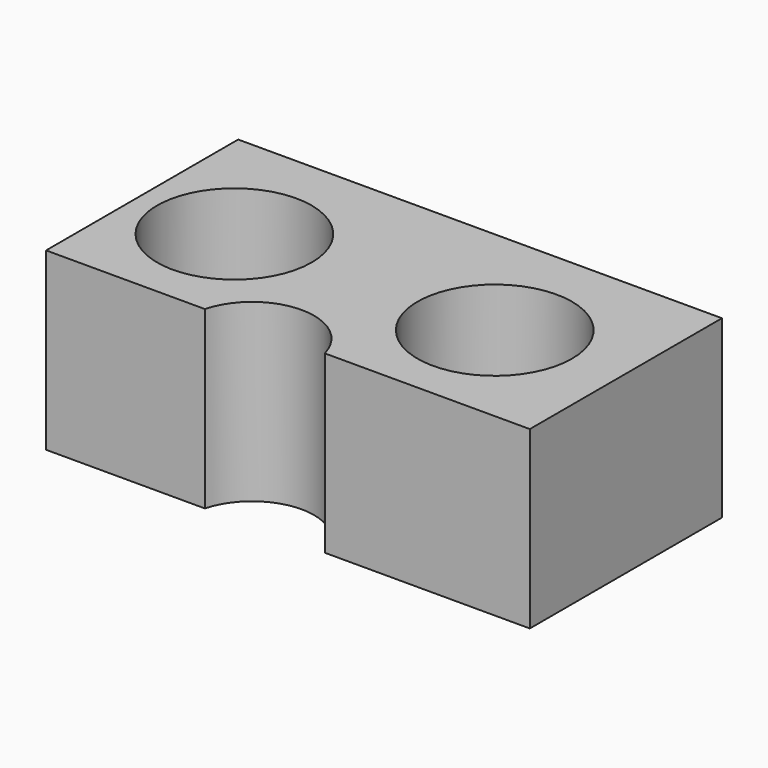
from build123d import *

# Parameters (mm, degrees)
F0_W     = 68.892335
F0_H     = 34.195906
F0_R     = 11
F1_DEPTH = 25
F3_DEPTH = 25.001


with BuildPart() as f1:
    # F0 (on Top) → F1 (new body)
    with BuildSketch(Plane.XY):
        with Locations((-3.502849, 0.932078)):
            Rectangle(F0_W, F0_H)
        with Locations((-24.066234, 0)):
            Circle(F0_R, mode=Mode.SUBTRACT)
        with Locations((13.015948, 0)):
            Circle(F0_R, mode=Mode.SUBTRACT)
    extrude(amount=F1_DEPTH)

    # F2 (on face) → F3 (cut, through all)
    with BuildSketch(Plane(origin=(0, 0, 0), x_dir=(1, 0, 0), z_dir=(0, 0, -1))):
        with BuildLine():
            Line((1.74269, 16.165875), (-15.338561, 16.165875))
            ThreePointArc((-15.338561, 16.165875), (-6.797935, 9.600842), (1.74269, 16.165875))
        make_face()
    extrude(amount=-F3_DEPTH, mode=Mode.SUBTRACT)


solid = f1.part
